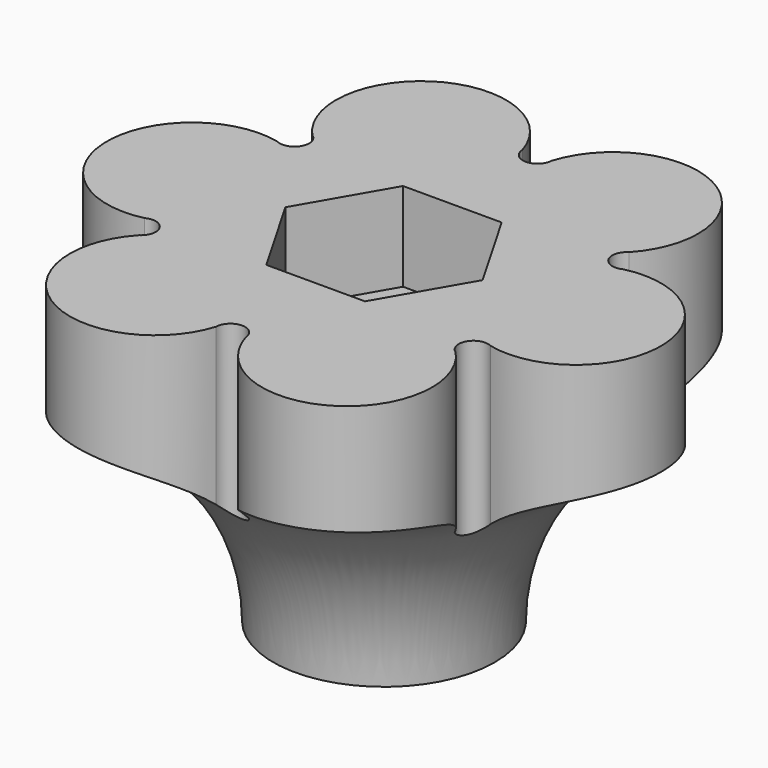
from build123d import *

# Parameters (mm, degrees)
SKETCH026_R     = 2.5
PAD010_DEPTH    = 15
POCKET010_DEPTH = 4


with BuildPart() as part:
    # Sketch026 → Pad010 (new body)
    with BuildSketch(Plane.XY):
        with BuildLine():
            ThreePointArc((7.1470904861, 4.890715447), (6.25, 10.8253175473), (0.6619385767, 8.6349196476))
            ThreePointArc((-0.6619385767, 8.6349196476), (0, 7.9978308267), (0.6619385767, 8.6349196476))
            ThreePointArc((-0.6619385767, 8.6349196476), (-6.25, 10.8253175473), (-7.1470904861, 4.890715447))
            ThreePointArc((-7.8090290628, 3.7442042006), (-6.9263246711, 3.9989154133), (-7.1470904861, 4.890715447))
            ThreePointArc((-7.8090290628, 3.7442042006), (-12.5, 0), (-7.8090290628, -3.7442042006))
            ThreePointArc((-7.1470904861, -4.890715447), (-6.9263246711, -3.9989154133), (-7.8090290628, -3.7442042006))
            ThreePointArc((-7.1470904861, -4.890715447), (-6.25, -10.8253175473), (-0.6619385767, -8.6349196476))
            ThreePointArc((0.6619385767, -8.6349196476), (0, -7.9978308267), (-0.6619385767, -8.6349196476))
            ThreePointArc((0.6619385767, -8.6349196476), (6.25, -10.8253175473), (7.1470904861, -4.890715447))
            ThreePointArc((7.8090290628, -3.7442042006), (6.9263246711, -3.9989154133), (7.1470904861, -4.890715447))
            ThreePointArc((7.8090290628, -3.7442042006), (12.5, 0), (7.8090290628, 3.7442042006))
            ThreePointArc((7.1470904861, 4.890715447), (6.9263246711, 3.9989154133), (7.8090290628, 3.7442042006))
        make_face()
        Circle(SKETCH026_R, mode=Mode.SUBTRACT)
    extrude(amount=PAD010_DEPTH)

    # Sketch027 (on Face15 of Pad010) → Pocket010 (cut)
    with BuildSketch(Plane.XY.offset(15)):
        Polygon((2.225, -3.8538130468), (4.45, 0), (2.225, 3.8538130468), (-2.225, 3.8538130468), (-4.45, 0), (-2.225, -3.8538130468), align=None)
    extrude(amount=-POCKET010_DEPTH, mode=Mode.SUBTRACT)

    # Sketch028 → Groove001 (revolve, cut)
    with BuildSketch(Plane.XZ):
        with BuildLine():
            ThreePointArc((12.5, 10), (7.0833333333, 6.25), (5, 0))
            Line((5, 0), (13.5, 0))
            Line((13.5, 0), (13.5, 10))
            Line((13.5, 10), (12.5, 10))
        make_face()
    revolve(axis=Axis((0, 0, 0), (0, 0, 1)), mode=Mode.SUBTRACT)


solid = part.part
